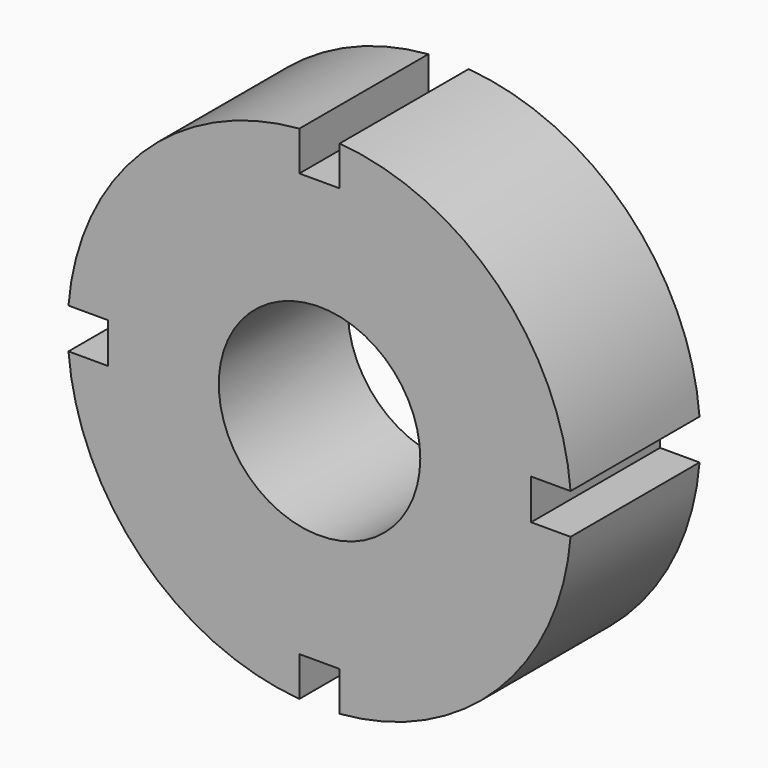
from build123d import *

# Parameters (mm, degrees)
SKETCH_R        = 12.5
SKETCH_R_2      = 5
PAD_DEPTH       = 8
SKETCH001_W     = 8.228719
SKETCH001_H     = 2
SKETCH001_W_2   = 5.633815
POCKET_DEPTH    = 8.001
SKETCH002_W     = 2
SKETCH002_H     = 3.680985
SKETCH002_H_2   = 3.52239
POCKET001_DEPTH = 8.001


with BuildPart() as part:
    # Sketch → Pad (new body)
    with BuildSketch(Plane.XZ):
        Circle(SKETCH_R)
        Circle(SKETCH_R_2, mode=Mode.SUBTRACT)
    extrude(amount=PAD_DEPTH)

    # Sketch001 → Pocket (cut, through all)
    with BuildSketch(Plane.XZ.offset(8)):
        with Locations((14.614359, 0)):
            Rectangle(SKETCH001_W, SKETCH001_H)
        with Locations((-13.316907, 0)):
            Rectangle(SKETCH001_W_2, SKETCH001_H)
    extrude(amount=-POCKET_DEPTH, mode=Mode.SUBTRACT)

    # Sketch002 → Pocket001 (cut, through all)
    with BuildSketch(Plane.XZ.offset(8)):
        with Locations((0, 12.340492)):
            Rectangle(SKETCH002_W, SKETCH002_H)
        with Locations((0, -12.261195)):
            Rectangle(SKETCH002_W, SKETCH002_H_2)
    extrude(amount=-POCKET001_DEPTH, mode=Mode.SUBTRACT)


solid = part.part
